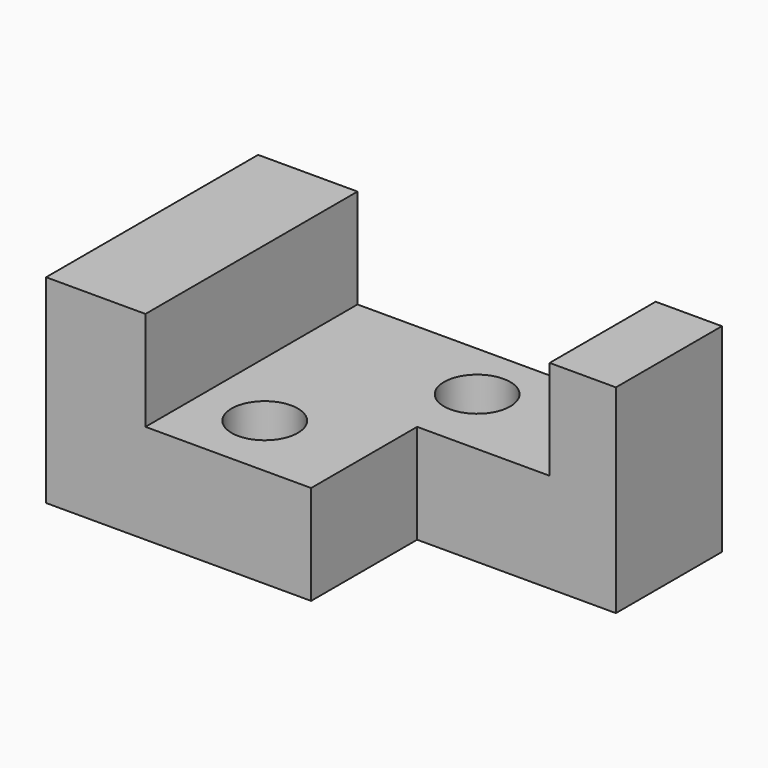
from build123d import *

# Parameters (mm, degrees)
F1_DEPTH = 50.8
F2_W     = 38.1
F2_H     = 25.4
F3_DEPTH = 39.21464
F5_D     = 12.7
F7_D     = 12.7


with BuildPart() as f1:
    # F0 (on Front) → F1 (new body)
    with BuildSketch(Plane.XZ):
        Polygon((-80.216871, 9.032293), (-99.266871, 9.032293), (-99.266871, -29.067707), (-10.366871, -29.067707), (-10.366871, 9.032293), (-23.066871, 9.032293), (-23.066871, -10.017707), (-80.216871, -10.017707), align=None)
    extrude(amount=-F1_DEPTH)

    # F2 (on face) → F3 (cut)
    with BuildSketch(Plane(origin=(0, 0, -29.067707), x_dir=(1, 0, 0), z_dir=(0, 0, -1))):
        with Locations((-29.416871, -12.7)):
            Rectangle(F2_W, F2_H)
    extrude(amount=-F3_DEPTH, mode=Mode.SUBTRACT)

    # F5 (through all)
    with Locations(Plane.XY.offset(-10.017707)):
        with Locations((-67.516871, 12.7)):
            Hole(F5_D / 2)

    # F7 (through all)
    with Locations(Plane.XY.offset(-10.017707)):
        with Locations((-48.063979, 39.275229)):
            Hole(F7_D / 2)


solid = f1.part
